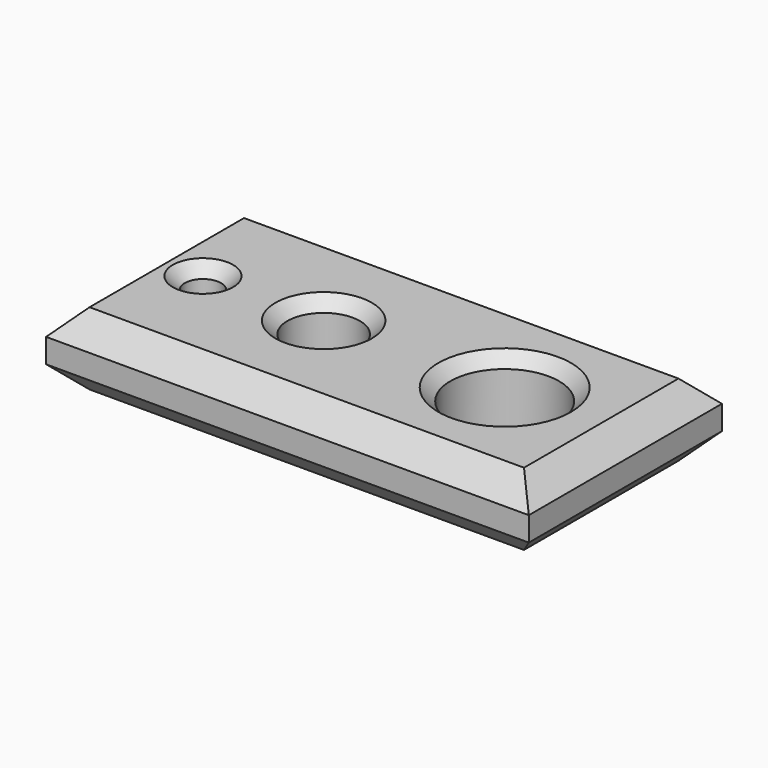
from build123d import *

# Parameters (mm, degrees)
F0_W     = 200
F0_H     = 100
F0_R     = 7.5
F0_R_2   = 15
F0_R_3   = 22.5
F1_DEPTH = 30
F2_SIZE2 = 10
F2_SIZE  = 10
F3_SIZE2 = 5
F3_SIZE  = 5


with BuildPart() as f1:
    # F0 (on Top) → F1 (new body)
    with BuildSketch(Plane.XY):
        with Locations((3.902927, 0)):
            Rectangle(F0_W, F0_H)
        with Locations((-71.097073, 0)):
            Circle(F0_R, mode=Mode.SUBTRACT)
        with Locations((-21.097073, 0)):
            Circle(F0_R_2, mode=Mode.SUBTRACT)
        with Locations((53.902927, 0)):
            Circle(F0_R_3, mode=Mode.SUBTRACT)
    extrude(amount=F1_DEPTH)

    # F2
    f2_edges = [f1.edges().sort_by_distance(p)[0] for p in [
        (3.902927, 50, 30),
        (-96.097073, 0, 30),
        (3.902927, -50, 30),
        (103.902927, 0, 30),
        (3.902927, -50, 0),
        (3.902927, 50, 0),
        (103.902927, 0, 0),
        (-96.097073, 0, 0),
    ]]
    chamfer(f2_edges, length=F2_SIZE, length2=F2_SIZE2)

    # F3
    f3_edges = [f1.edges().sort_by_distance(p)[0] for p in [
        (-78.597073, 0, 30),
        (-36.097073, 0, 30),
        (31.402927, 0, 30),
    ]]
    chamfer(f3_edges, length=F3_SIZE, length2=F3_SIZE2)


solid = f1.part
